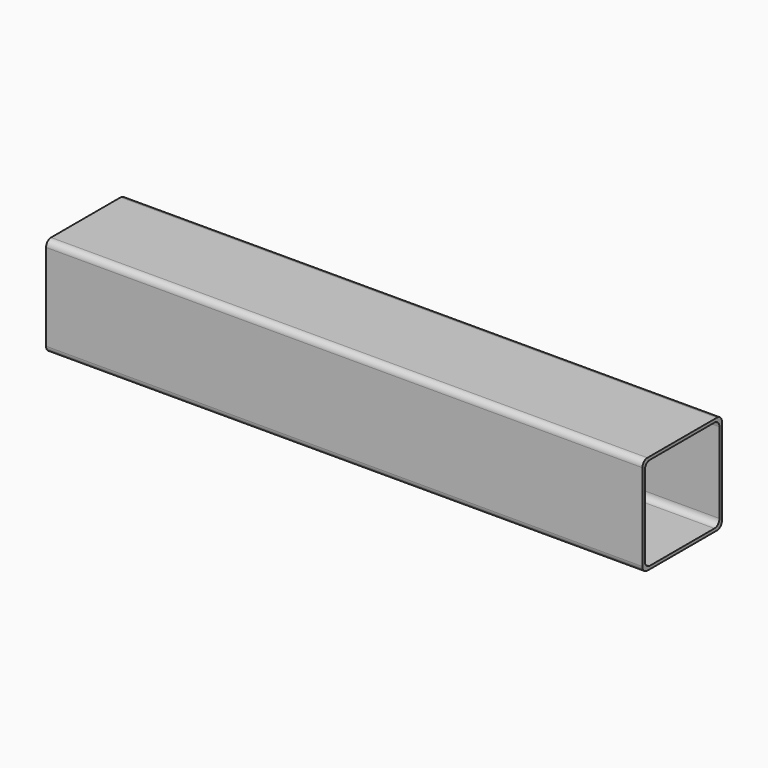
from build123d import *

# Parameters (mm, degrees)
F1_DEPTH = 304.8


with BuildPart() as f1:
    # F0 (on Right) → F1 (new body)
    with BuildSketch(Plane.YZ):
        with BuildLine():
            ThreePointArc((25.4, 22.225), (24.470064, 24.470064), (22.225, 25.4))
            Line((22.225, 25.4), (-22.225, 25.4))
            ThreePointArc((-22.225, 25.4), (-24.470064, 24.470064), (-25.4, 22.225))
            Line((-25.4, 22.225), (-25.4, -22.225))
            ThreePointArc((-25.4, -22.225), (-24.470064, -24.470064), (-22.225, -25.4))
            Line((-22.225, -25.4), (22.225, -25.4))
            ThreePointArc((22.225, -25.4), (24.470064, -24.470064), (25.4, -22.225))
            Line((25.4, -22.225), (25.4, 22.225))
        make_face()
        with BuildLine():
            Line((-20.6375, 23.8125), (20.6375, 23.8125))
            ThreePointArc((20.6375, 23.8125), (22.882564, 22.882564), (23.8125, 20.6375))
            Line((23.8125, 20.6375), (23.8125, -20.6375))
            ThreePointArc((23.8125, -20.6375), (22.882564, -22.882564), (20.6375, -23.8125))
            Line((20.6375, -23.8125), (-20.6375, -23.8125))
            ThreePointArc((-20.6375, -23.8125), (-22.882564, -22.882564), (-23.8125, -20.6375))
            Line((-23.8125, -20.6375), (-23.8125, 20.6375))
            ThreePointArc((-23.8125, 20.6375), (-22.882564, 22.882564), (-20.6375, 23.8125))
        make_face(mode=Mode.SUBTRACT)
    extrude(amount=F1_DEPTH)


solid = f1.part
